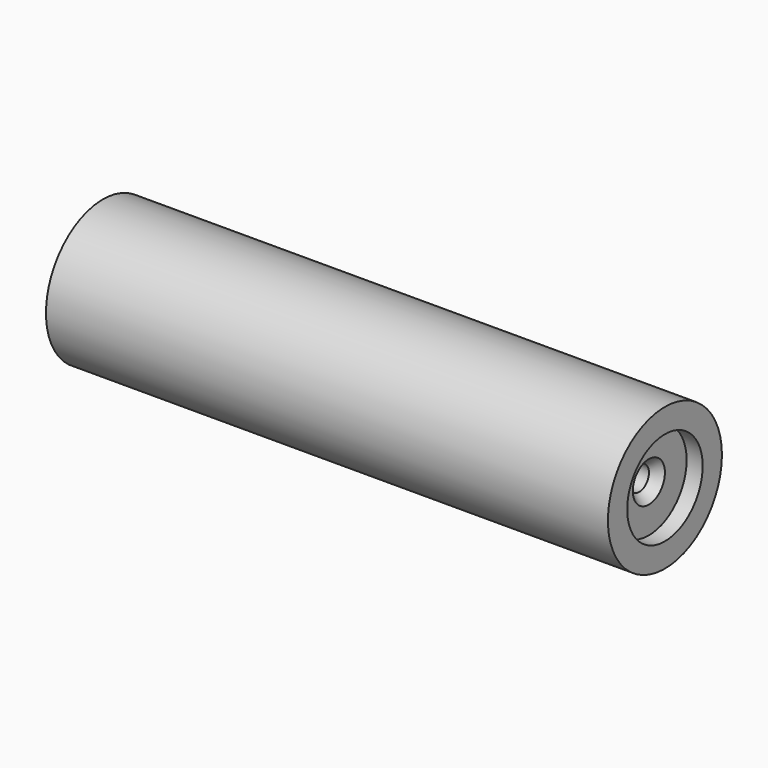
from build123d import *

# Parameters (mm, degrees)
F0_R           = 8.875
F0_R_2         = 5.875
F1_DEPTH       = 70
F2_START       = 44
F2_DEPTH       = 24
F4_D           = 3
F4_DEPTH       = 10
F4_CSINK_D     = 5
F4_CSINK_ANGLE = 80
F4_TIP         = 0.9012909285


with BuildPart() as f1:
    # F0 (on Right) → F1 (new body)
    with BuildSketch(Plane.YZ):
        Circle(F0_R)
        Circle(F0_R_2, mode=Mode.SUBTRACT)
    extrude(amount=F1_DEPTH)

    # F0 (on Right) → F2 (join)
    with BuildSketch(Plane.YZ.offset(F2_START)):
        Circle(F0_R_2)
    extrude(amount=F2_DEPTH)

    # F4
    with Locations(Plane.YZ.offset(68)):
        with Locations((0, 0)):
            CounterSinkHole(F4_D / 2, F4_CSINK_D / 2, depth=F4_DEPTH, counter_sink_angle=F4_CSINK_ANGLE)
            with Locations((0, 0, -(F4_DEPTH + F4_TIP / 2))):  # 118° drill point
                Cone(0, F4_D / 2, F4_TIP, mode=Mode.SUBTRACT)


solid = f1.part
